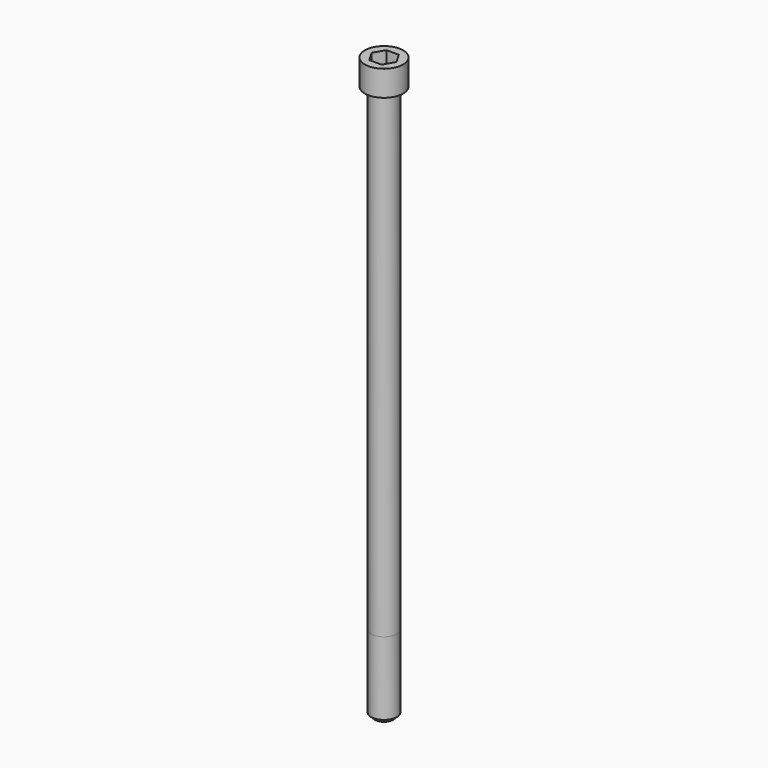
from build123d import *

# Parameters (mm, degrees)
POCKET_DEPTH = 10.07


with BuildPart() as part:
    # Sketch → Revolve (revolve)
    with BuildSketch(Plane.YZ):
        with BuildLine():
            Line((5.999, 0), (9, 0))
            Line((9, 0), (9, 11.97229))
            ThreePointArc((9, 11.97229), (8.991884, 11.991884), (8.97229, 12))
            Line((8.97229, 12), (0, 12))
            Line((0, -260), (0, 12))
            Line((4.25, -260), (0, -260))
            Line((6, -258.25), (4.25, -260))
            Line((6, -224), (6, -258.25))
            Line((5.999, 0), (6, -224))
        make_face()
    revolve(axis=Axis((0, 0, 0), (0, 0, 1)))

    # Sketch001 → Pocket (cut)
    with BuildSketch(Plane.XY.offset(12)):
        Polygon((5.813917, 0), (2.906959, 5.035), (-2.906959, 5.035), (-5.813917, 0), (-2.906959, -5.035), (2.906959, -5.035), align=None)
    extrude(amount=-POCKET_DEPTH, mode=Mode.SUBTRACT)


solid = part.part
